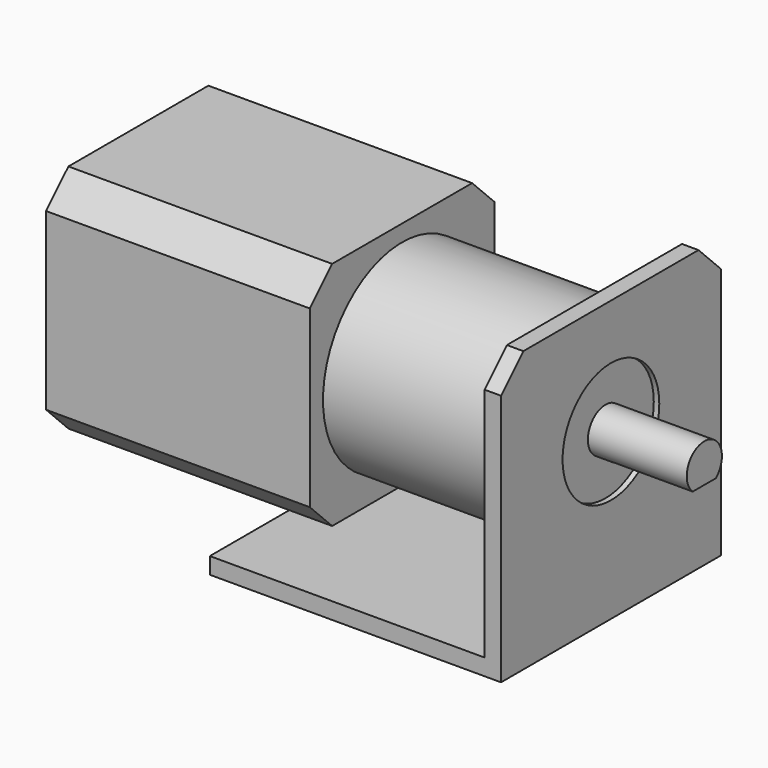
from build123d import *

# Parameters (mm, degrees)
F0_R      = 18
F1_DEPTH  = 35
F2_W      = 42
F2_H      = 42
F3_DEPTH  = 48
F4_SIZE   = 5.08
F5_R      = 11
F6_DEPTH  = 2
F7_R      = 4
F8_DEPTH  = 18
F10_DEPTH = 15
F11_W     = 50
F11_H     = 51
F11_R     = 11
F12_DEPTH = 3
F13_SIZE  = 5.08
F14_W     = 50
F14_H     = 50
F15_DEPTH = 3


with BuildPart() as f1:
    # F0 (on Right) → F1 (new body)
    with BuildSketch(Plane.YZ):
        Circle(F0_R)
    extrude(amount=F1_DEPTH)

    # F2 (on face) → F3 (join)
    with BuildSketch(Plane(origin=(0, 0, 0), x_dir=(0, -1, 0), z_dir=(-1, 0, 0))):
        Rectangle(F2_W, F2_H)
    extrude(amount=F3_DEPTH)

    # F4
    f4_edges = [f1.edges().sort_by_distance(p)[0] for p in [
        (-24, -21, 21),
        (-24, 21, 21),
        (-24, 21, -21),
        (-24, -21, -21),
    ]]
    chamfer(f4_edges, length=F4_SIZE)

    # F5 (on face) → F6 (join)
    with BuildSketch(Plane.YZ.offset(35)):
        Circle(F5_R)
    extrude(amount=F6_DEPTH)

    # F7 (on face) → F8 (join)
    with BuildSketch(Plane.YZ.offset(37)):
        Circle(F7_R)
    extrude(amount=F8_DEPTH)

    # F9 (on face) → F10 (cut)
    with BuildSketch(Plane.YZ.offset(55)):
        with BuildLine():
            Line((2.645751, -3), (-2.645751, -3))
            ThreePointArc((-2.645751, -3), (0, -4), (2.645751, -3))
        make_face()
    extrude(amount=-F10_DEPTH, mode=Mode.SUBTRACT)


with BuildPart() as f12:
    # F11 (on face) → F12 (new body)
    with BuildSketch(Plane.YZ.offset(35)):
        with Locations((0, -4.5)):
            Rectangle(F11_W, F11_H)
        Circle(F11_R, mode=Mode.SUBTRACT)
    extrude(amount=F12_DEPTH)

    # F13
    f13_edges = [f12.edges().sort_by_distance(p)[0] for p in [
        (36.5, -25, 21),
        (36.5, 25, 21),
    ]]
    chamfer(f13_edges, length=F13_SIZE)

    # F14 (on face) → F15 (join)
    with BuildSketch(Plane(origin=(0, 0, -30), x_dir=(1, 0, 0), z_dir=(0, 0, -1))):
        with Locations((10, 0)):
            Rectangle(F14_W, F14_H)
    extrude(amount=-F15_DEPTH)


solid = Compound([f1.part, f12.part])
